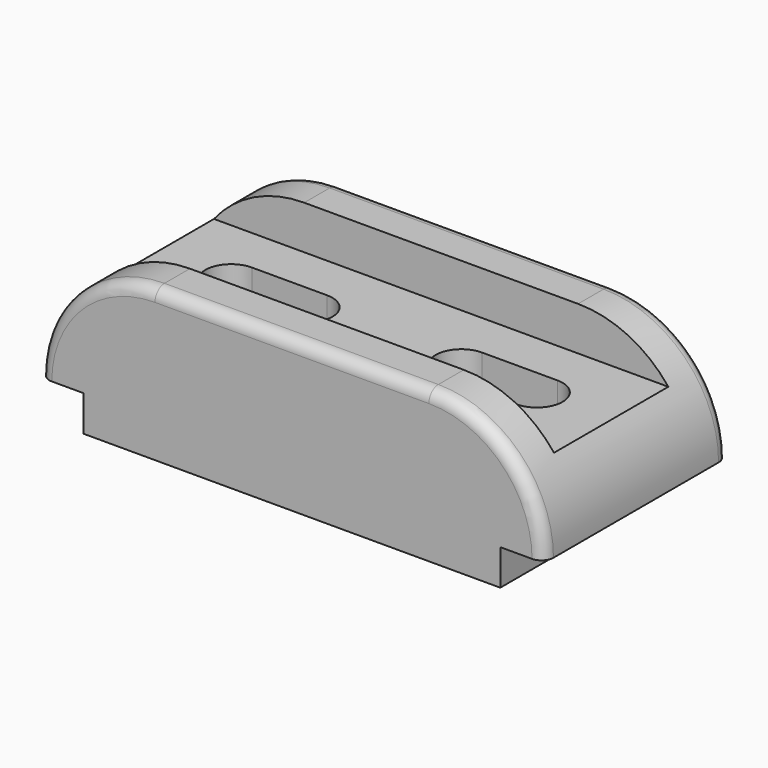
from build123d import *

# Parameters (mm, degrees)
F1_DEPTH      = 29
F2_W          = 36
F2_H          = 11
F3_DEPTH      = 63.501
F3_DEPTH_BACK = 63.501
F5_DEPTH      = 27.001
F6_R          = 3


with BuildPart() as f1:
    # F0 (on Front) → F1 (new body, symmetric)
    with BuildSketch(Plane.XZ):
        with BuildLine():
            Line((-52.5, 0), (0, 0))
            Line((0, 0), (52.5, 0))
            Line((52.5, 0), (52.5, 9))
            Line((52.5, 9), (63.5, 9))
            ThreePointArc((63.5, 9), (55.0060966544, 29.5060966544), (34.5, 38))
            Line((34.5, 38), (0, 38))
            Line((0, 38), (-34.5, 38))
            ThreePointArc((-34.5, 38), (-55.0060966544, 29.5060966544), (-63.5, 9))
            Line((-63.5, 9), (-52.5, 9))
            Line((-52.5, 9), (-52.5, 0))
        make_face()
    extrude(amount=F1_DEPTH, both=True)

    # F2 (on Right) → F3 (cut, two sides)
    with BuildSketch(Plane.YZ) as f3_sk:
        with Locations((0, 32.5)):
            Rectangle(F2_W, F2_H)
    extrude(amount=-F3_DEPTH, mode=Mode.SUBTRACT)
    extrude(f3_sk.sketch, amount=F3_DEPTH_BACK, mode=Mode.SUBTRACT)

    # F4 (on face) → F5 (cut, through all)
    with BuildSketch(Plane.XY.offset(27)):
        with BuildLine():
            Line((-19.5, 6.5), (-38.5, 6.5))
            ThreePointArc((-38.5, 6.5), (-45, 0), (-38.5, -6.5))
            Line((-38.5, -6.5), (-19.5, -6.5))
            ThreePointArc((-19.5, -6.5), (-13, 0), (-19.5, 6.5))
        make_face()
        with BuildLine():
            Line((38.5, 6.5), (19.5, 6.5))
            ThreePointArc((19.5, 6.5), (13, 0), (19.5, -6.5))
            Line((19.5, -6.5), (38.5, -6.5))
            ThreePointArc((38.5, -6.5), (45, 0), (38.5, 6.5))
        make_face()
    extrude(amount=-F5_DEPTH, mode=Mode.SUBTRACT)

    # F6
    f6_edges = [f1.edges().sort_by_distance(p)[0] for p in [
        (0, -29, 38),
        (0, 29, 38),
    ]]
    fillet(f6_edges, radius=F6_R)


solid = f1.part
